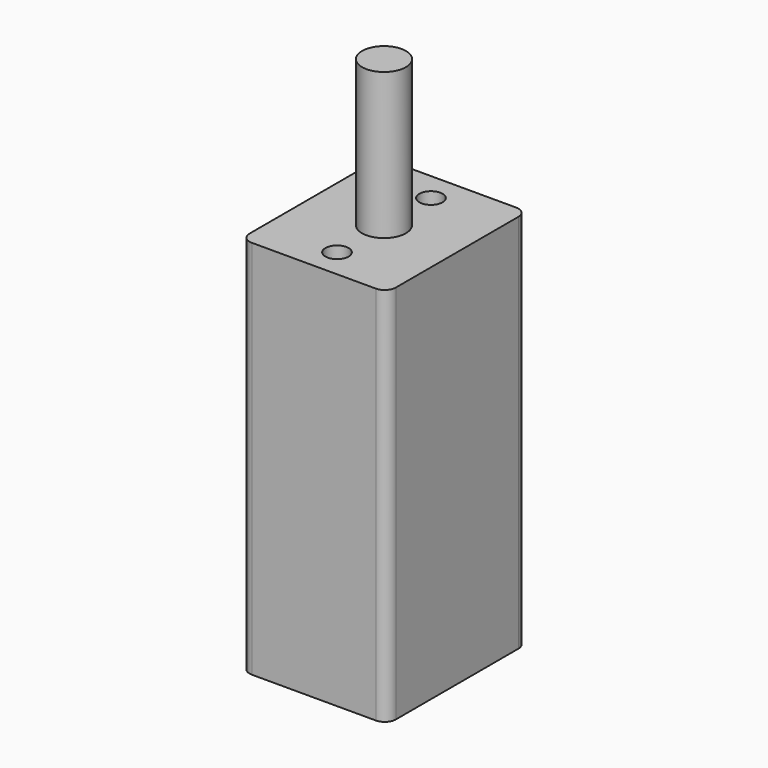
from build123d import *

# Parameters (mm, degrees)
F0_W     = 10
F0_H     = 12
F1_DEPTH = 26
F2_R     = 0.762
F3_R     = 1.5
F4_DEPTH = 10
F5_R     = 0.79375
F6_DEPTH = 3.175


with BuildPart() as f1:
    # F0 (on Top) → F1 (new body)
    with BuildSketch(Plane.XY):
        Rectangle(F0_W, F0_H)
    extrude(amount=F1_DEPTH)

    # F2
    f2_edges = [f1.edges().sort_by_distance(p)[0] for p in [
        (-5, -6, 13),
        (-5, 6, 13),
        (5, -6, 13),
        (5, 6, 13),
    ]]
    fillet(f2_edges, radius=F2_R)

    # F3 (on face) → F4 (join)
    with BuildSketch(Plane.XY.offset(26)):
        Circle(F3_R)
    extrude(amount=F4_DEPTH)

    # F5 (on face) → F6 (cut)
    with BuildSketch(Plane.XY.offset(26)):
        with Locations((0, 4.015625)):
            Circle(F5_R)
        with Locations((0, -4.015625)):
            Circle(F5_R)
    extrude(amount=-F6_DEPTH, mode=Mode.SUBTRACT)


solid = f1.part
